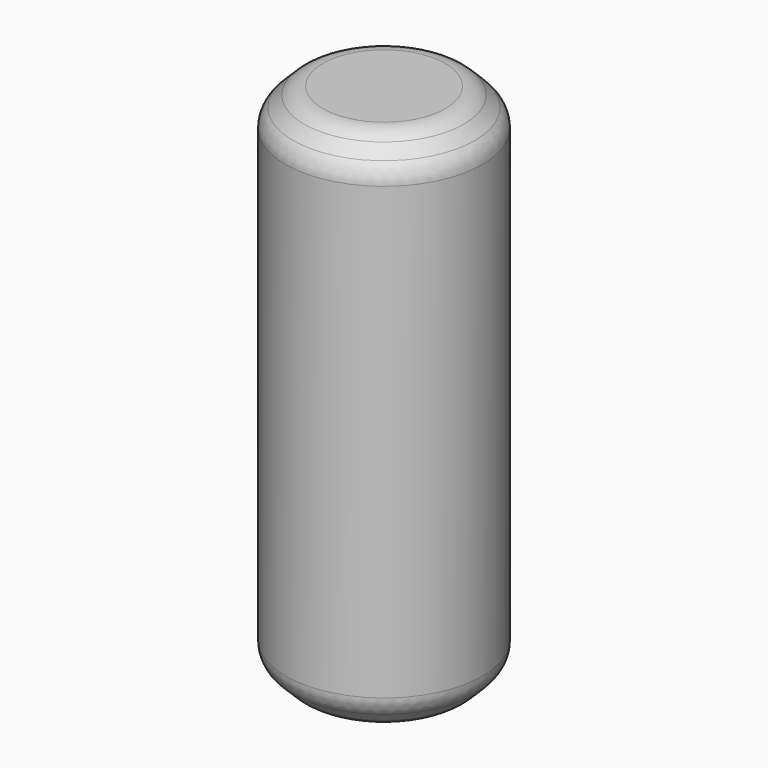
from build123d import *

# Parameters (mm, degrees)
F0_R     = 19.05
F1_DEPTH = 101.6
F2_SIZE  = 5.08
F3_R     = 5.08


with BuildPart() as f1:
    # F0 (on Top) → F1 (new body)
    with BuildSketch(Plane.XY):
        Circle(F0_R)
    extrude(amount=F1_DEPTH)

    # F2
    f2_edges = [f1.edges().sort_by_distance(p)[0] for p in [
        (-19.05, 0, 101.6),
        (-19.05, 0, 0),
    ]]
    chamfer(f2_edges, length=F2_SIZE)

    # F3
    f3_edges = [f1.edges().sort_by_distance(p)[0] for p in [
        (19.05, 0, 50.8),
        (-19.05, 0, 5.08),
        (-19.05, 0, 96.52),
        (-13.97, 0, 0),
        (-13.97, 0, 101.6),
    ]]
    fillet(f3_edges, radius=F3_R)


solid = f1.part
